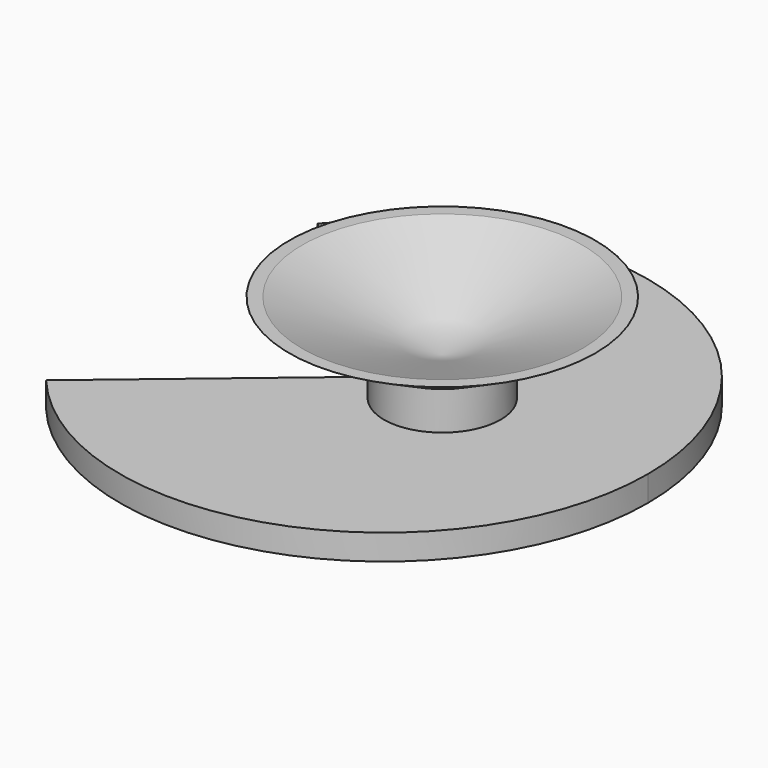
from build123d import *

# Parameters (mm, degrees)
F1_DEPTH  = 2
F2_R      = 4.5769209974
F3_DEPTH  = 3
F5_R      = 12
F3_FACE_R = 4.5769209974
F8_R      = 11


with BuildPart() as f1:
    # F0 (on Top) → F1 (new body)
    with BuildSketch(Plane.XY):
        with BuildLine():
            ThreePointArc((-15.8636282962, -13.3111646525), (7.0827227745, -19.4596208911), (20.7084960132, 0))
            ThreePointArc((20.7084960132, 0), (7.0827227745, 19.4596208911), (-15.8636282962, 13.3111646525))
            Line((-15.8636282962, 13.3111646525), (0, 0))
            Line((0, 0), (-15.8636282962, -13.3111646525))
        make_face()
    extrude(amount=F1_DEPTH)

    # F2 (on face) → F3 (join)
    with BuildSketch(Plane.XY.offset(2)):
        with Locations((4.5769209974, 0)):
            Circle(F2_R)
    extrude(amount=F3_DEPTH)

    # F5 (on offset) → F7 section 0
    with BuildSketch(Plane.XY.offset(9)):
        with Locations((4.5769209974, 0)):
            Circle(F5_R)
    # F3_face (on face) → F7 section 1
    with BuildSketch(Plane(origin=(4.5769209974, 0, 5), x_dir=(1, 0, 0), z_dir=(0, 0, 1))):
        Circle(F3_FACE_R)
    loft()

    # F8 (on face) → F9 section 0
    with BuildSketch(Plane.XY.offset(9), mode=Mode.PRIVATE) as f9_s0:
        with Locations((4.5769209974, 0)):
            Circle(F8_R)
    loft([f9_s0.sketch, Vertex(4.5769209974, 0, 5)], mode=Mode.SUBTRACT)


solid = f1.part
